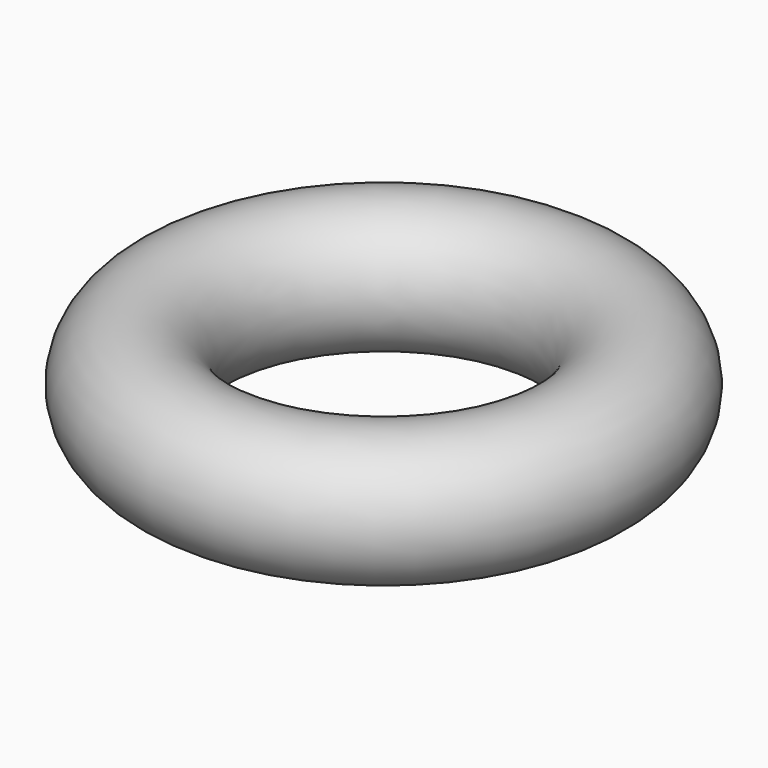
from build123d import *

# Parameters (mm, degrees)
F0_R = 3.175


with BuildPart() as f1:
    # F0 (on Front) → F1 (revolve)
    with BuildSketch(Plane.XZ):
        Circle(F0_R)
    revolve(axis=Axis((9.525, 0, 1.229782), (0, 0, 1)))


with BuildPart() as f1_1:
    # F2: moved
    add(f1.part.moved(Location((-9.525, 0, 0))))


solid = f1_1.part
